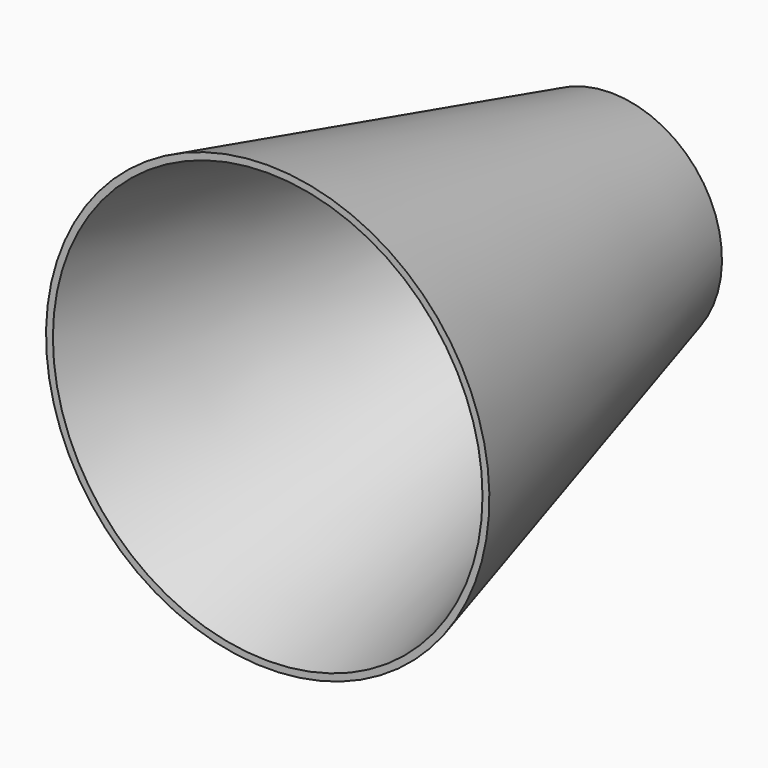
from build123d import *


with BuildPart() as f2:
    # F1 (on Right) → F2 (revolve)
    with BuildSketch(Plane.YZ):
        Polygon((98.3737769937, 25.4), (0, 50.8), (0, 49.2260195681), (98.3737769937, 23.8260195681), align=None)
    revolve(axis=Axis((0, 0, 0), (0, -1, 0)))


solid = f2.part
